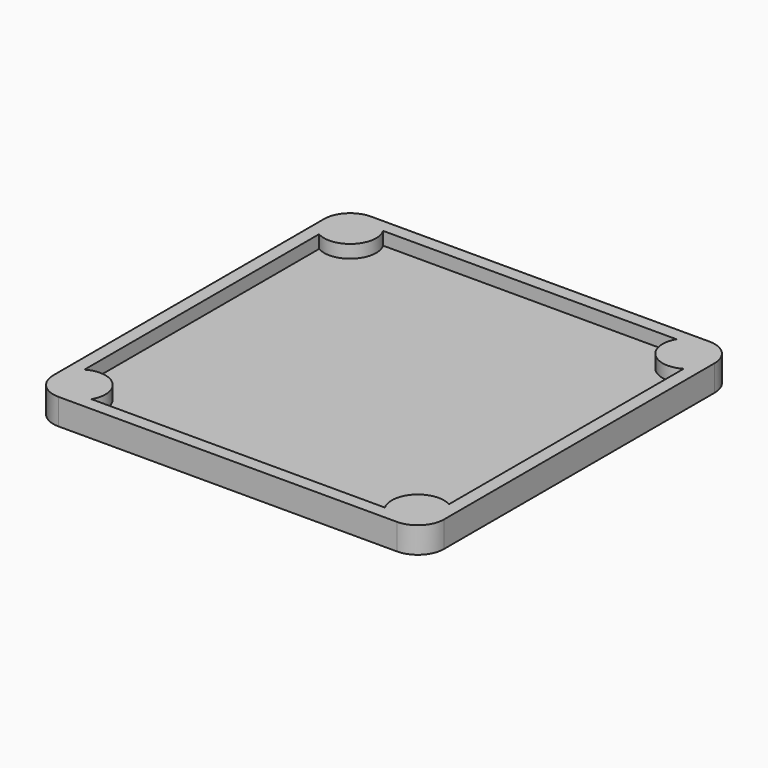
from build123d import *

# Parameters (mm, degrees)
F0_W     = 30
F0_H     = 30
F1_DEPTH = 2
F3_DEPTH = 1
F5_R     = 1.5
F6_DEPTH = 1.5
F7_R     = 2


with BuildPart() as f1:
    # F0 (on Top) → F1 (new body)
    with BuildSketch(Plane.XY):
        Rectangle(F0_W, F0_H)
    extrude(amount=F1_DEPTH)

    # F2 (on face) → F3 (cut)
    with BuildSketch(Plane.XY.offset(2)):
        with BuildLine():
            ThreePointArc((-11.267949, 14), (-11.585786, 11.585786), (-14, 11.267949))
            Line((-14, 11.267949), (-14, -11.267949))
            ThreePointArc((-14, -11.267949), (-11.585786, -11.585786), (-11.267949, -14))
            Line((-11.267949, -14), (11.267949, -14))
            ThreePointArc((11.267949, -14), (11.585786, -11.585786), (14, -11.267949))
            Line((14, -11.267949), (14, 11.267949))
            ThreePointArc((14, 11.267949), (11.585786, 11.585786), (11.267949, 14))
            Line((11.267949, 14), (-11.267949, 14))
        make_face()
    extrude(amount=-F3_DEPTH, mode=Mode.SUBTRACT)

    # F5 (on offset) → F6 (cut)
    with BuildSketch(Plane.XY.offset(1.8)):
        with Locations((-13, 13)):
            Circle(F5_R)
        with Locations((13, 13)):
            Circle(F5_R)
        with Locations((-13, -13)):
            Circle(F5_R)
        with Locations((13, -13)):
            Circle(F5_R)
    extrude(amount=-F6_DEPTH, mode=Mode.SUBTRACT)

    # F7
    f7_edges = [f1.edges().sort_by_distance(p)[0] for p in [
        (-15, 15, 1),
        (-15, -15, 1),
        (15, -15, 1),
        (15, 15, 1),
    ]]
    fillet(f7_edges, radius=F7_R)


solid = f1.part
